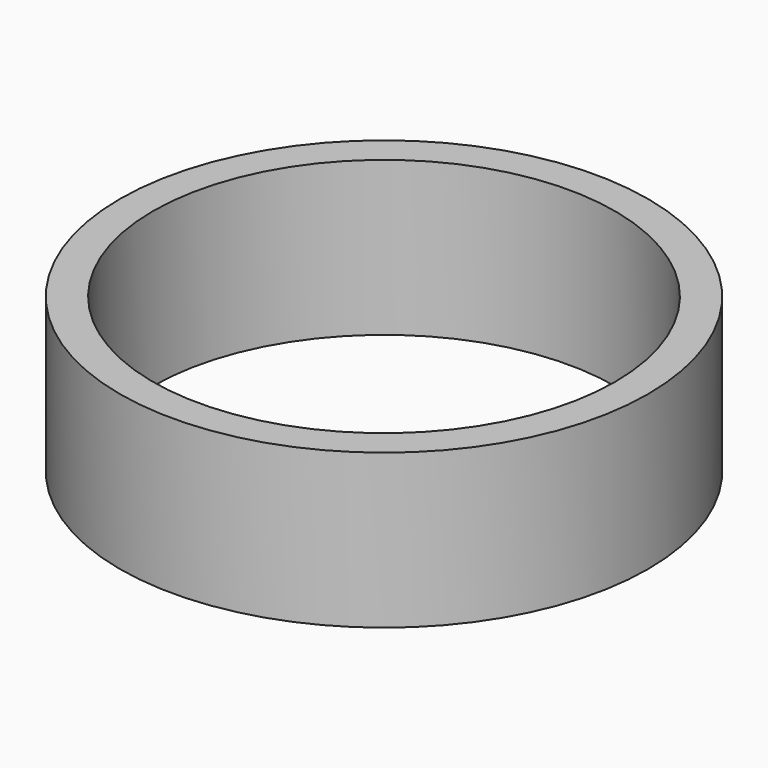
from build123d import *

# Parameters (mm, degrees)
CYLINDER012_R     = 10.5
CYLINDER012_DEPTH = 13
CYLINDER011_R     = 12
CYLINDER011_DEPTH = 7


with BuildPart() as cylinder012:
    # Cylinder012 → Cylinder012 (new body)
    with BuildSketch(Plane.XY.offset(-6)):
        Circle(CYLINDER012_R)
    extrude(amount=CYLINDER012_DEPTH)


with BuildPart() as cut:
    # Cylinder011 → Cylinder011 (new body)
    with BuildSketch(Plane.XY.offset(-6)):
        Circle(CYLINDER011_R)
    extrude(amount=CYLINDER011_DEPTH)

    # Cut: cut Cylinder012
    add(cylinder012.part, mode=Mode.SUBTRACT)


solid = cut.part
